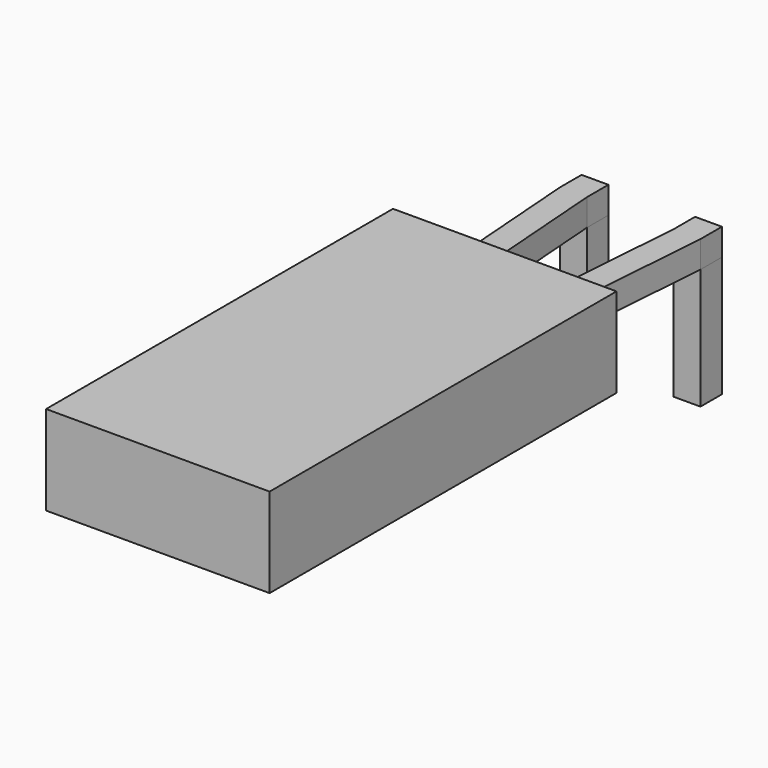
from build123d import *

# Parameters (mm, degrees)
SKETCH_W       = 0.6
SKETCH_H       = 0.6
PAD_DEPTH      = 0.7
PAD_DEPTH_BACK = 2
PAD001_DEPTH   = 0.6
SKETCH002_W    = 2.54
SKETCH002_H    = 0.6
PAD002_DEPTH   = 1
SKETCH004_W    = 5
SKETCH004_H    = 2
PAD003_DEPTH   = 9.7


with BuildPart() as pad:
    # Sketch → Pad (new body, two sides)
    with BuildSketch(Plane.XY) as pad_sk:
        Rectangle(SKETCH_W, SKETCH_H)
        with Locations((2.54, 0)):
            Rectangle(SKETCH_W, SKETCH_H)
    extrude(amount=PAD_DEPTH)
    extrude(pad_sk.sketch, amount=-PAD_DEPTH_BACK)


with BuildPart() as pad001:
    # Sketch001 → Pad001 (new body)
    with BuildSketch(Plane.XY.offset(0.7)):
        Polygon((0.3, 0.3), (-0.3, 0.3), (-0.3, -0.3), (0, -4.31), (0.6, -4.31), (0.3, -0.3), align=None)
        Polygon((2.84, 0.3), (2.24, 0.3), (2.24, -0.3), (1.94, -4.31), (2.54, -4.31), (2.84, -0.3), align=None)
    extrude(amount=PAD001_DEPTH)


with BuildPart() as pad002:
    # Sketch002 → Pad002 (new body)
    with BuildSketch(Plane.XZ.offset(4.31)):
        with Locations((1.27, 1)):
            Rectangle(SKETCH002_W, SKETCH002_H)
    extrude(amount=PAD002_DEPTH)


with BuildPart() as pad003:
    # Sketch004 → Pad003 (new body)
    with BuildSketch(Plane.XZ.offset(3.81)):
        with Locations((1.27, 1)):
            Rectangle(SKETCH004_W, SKETCH004_H)
    extrude(amount=PAD003_DEPTH)


with BuildPart() as revolution001:
    # Sketch005 → Revolution001 (revolve)
    with BuildSketch(Plane.YZ.offset(1.27)):
        Polygon((-5.01, 1), (-5.51, 1), (-5.51, 1.5), align=None)
    revolve(axis=Axis((1.27, -3.977201, 1), (0, -1, 0)))


solid = Compound([pad.part, pad001.part, pad002.part, pad003.part, revolution001.part])
